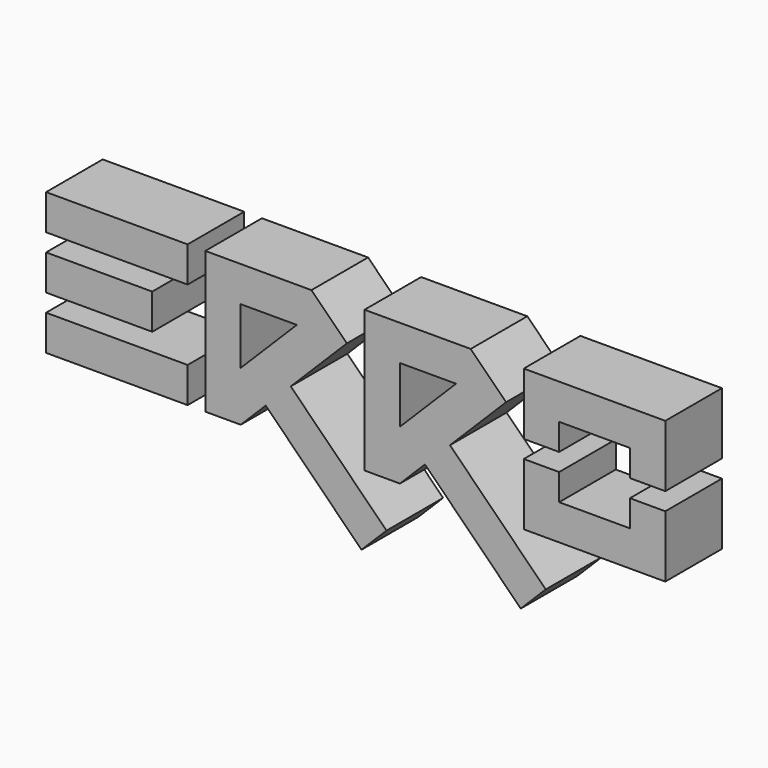
from build123d import *

# Parameters (mm, degrees)
F0_W     = 40
F0_H     = 10
F0_W_2   = 30
F1_DEPTH = 20


with BuildPart() as f1:
    # F0 (on Front) → F1 (new body)
    with BuildSketch(Plane.XZ):
        with Locations((-20, 35)):
            Rectangle(F0_W, F0_H)
        with Locations((-25, 20)):
            Rectangle(F0_W_2, F0_H)
        with Locations((-20, 5)):
            Rectangle(F0_W, F0_H)
        Polygon((5, 40), (5, 0), (15, 0), (22.071068, 7.071068), (49.142136, -20), (56.213203, -12.928932), (29.142136, 14.142136), (45, 30), (35, 40), align=None)
        Polygon((15, 14.142136), (15, 30), (30.857864, 30), align=None, mode=Mode.SUBTRACT)
        Polygon((50, 40), (50, 0), (60, 0), (67.071068, 7.071068), (94.142136, -20), (101.213203, -12.928932), (74.142136, 14.142136), (90, 30), (80, 40), align=None)
        Polygon((60, 14.142136), (60, 30), (75.857864, 30), align=None, mode=Mode.SUBTRACT)
        Polygon((95, 17.5), (95, 0), (135, 0), (135, 17.5), (125, 17.5), (125, 10), (105, 10), (105, 17.5), align=None)
        Polygon((135, 40), (95, 40), (95, 22.5), (105, 22.5), (105, 30), (125, 30), (125, 22.5), (135, 22.5), align=None)
    extrude(amount=F1_DEPTH)


solid = f1.part
